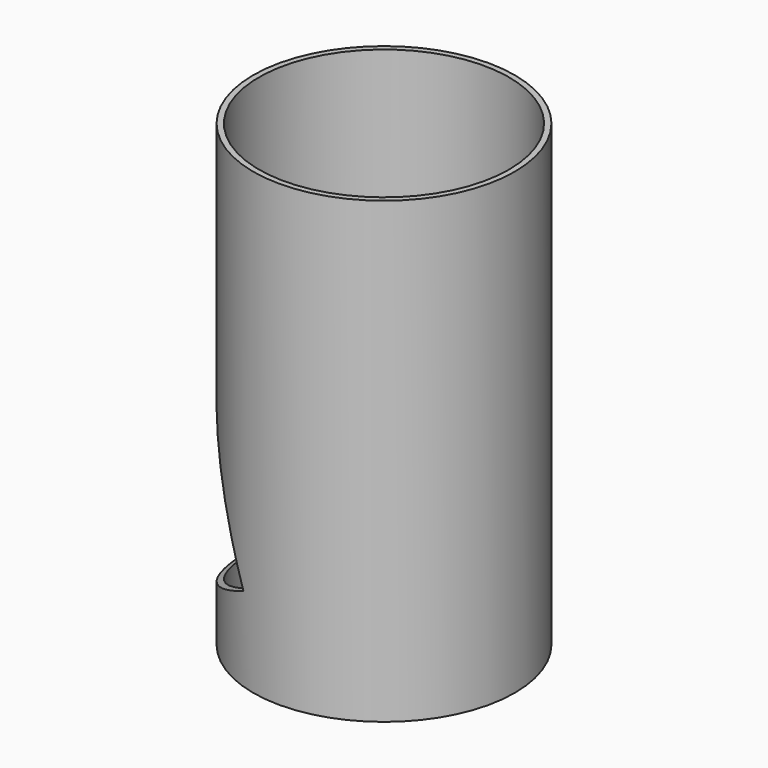
from build123d import *

# Parameters (mm, degrees)
F0_R     = 57
F1_DEPTH = 200
F2_T     = -2.5
F4_DEPTH = 60


with BuildPart() as f1:
    # F0 (on Top) → F1 (new body)
    with BuildSketch(Plane.XY):
        with Locations((0, 3.563962)):
            Circle(F0_R)
        with Locations((0, 3.563962)):
            Circle(F0_R)
    extrude(amount=F1_DEPTH)

    # F2
    f2_openings = [f1.faces().sort_by_distance(p)[0] for p in [
        (0, 3.563962, 0),
        (0, 3.563962, 200),
    ]]
    offset(amount=F2_T, openings=f2_openings)

    # F3 (on Front) → F4 (cut, symmetric)
    with BuildSketch(Plane.XZ):
        Polygon((-57, 120.229874), (-57, 18.429874), (-18, 36.621924), align=None)
    extrude(amount=F4_DEPTH, both=True, mode=Mode.SUBTRACT)


solid = f1.part
